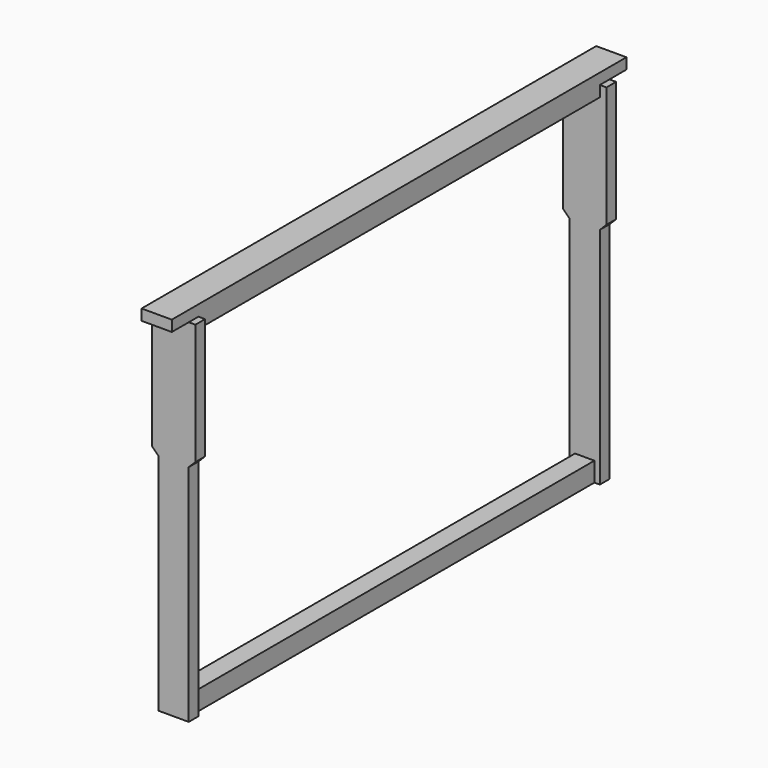
from build123d import *

# Parameters (mm, degrees)
PAD005_DEPTH = 12.5
PAD006_DEPTH = 10
PAD007_DEPTH = 10
SKETCH012_W  = 415
SKETCH012_H  = 16
PAD008_DEPTH = 8


with BuildPart() as part:
    # Sketch008 → Pad005 (new body, symmetric)
    with BuildSketch(Plane.YZ):
        Polygon((-235, 294), (235, 294), (235, 285), (207.5, 285), (207.5, 276), (-207.5, 276), (-207.5, 285), (-235, 285), align=None)
    extrude(amount=PAD005_DEPTH, both=True)

    # Sketch010 (on Face6 of Pad005) → Pad006 (join)
    with BuildSketch(Plane(origin=(0, -207.5, 0), x_dir=(0, 0, -1), z_dir=(0, -1, 0))):
        Polygon((-285, 18), (-285, -18), (-185, -18), (-179.5, -12.5), (6, -12.5), (6, 12.5), (-179.5, 12.5), (-185, 18), align=None)
    extrude(amount=PAD006_DEPTH)

    # Sketch011 (on Face8 of Pad006) → Pad007 (join)
    with BuildSketch(Plane.ZX.offset(207.5)):
        Polygon((-6, 12.5), (179.5, 12.5), (185, 18), (285, 18), (285, -18), (185, -18), (179.5, -12.5), (-6, -12.5), align=None)
    extrude(amount=PAD007_DEPTH)

    # Sketch012 → Pad008 (join, symmetric)
    with BuildSketch(Plane.YZ):
        with Locations((0, 2)):
            Rectangle(SKETCH012_W, SKETCH012_H)
    extrude(amount=PAD008_DEPTH, both=True)


solid = part.part
